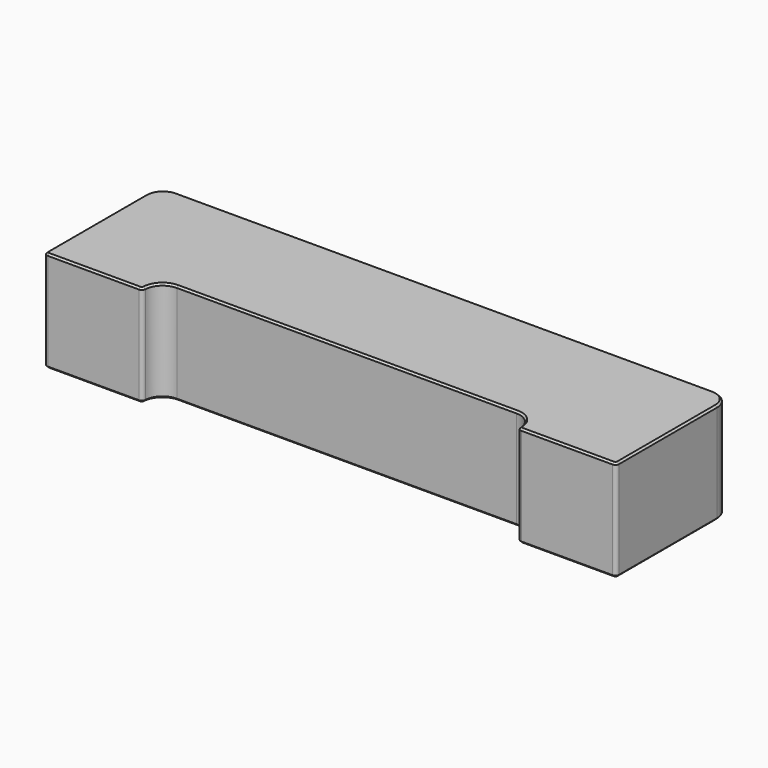
from build123d import *

# Parameters (mm, degrees)
F1_DEPTH = 11.3
F2_R     = 0.4
F3_SIZE  = 0.2


with BuildPart() as f1:
    # F0 (on Top) → F1 (new body)
    with BuildSketch(Plane.XY):
        with BuildLine():
            Line((-32, 6.05), (-32, -8.05))
            Line((-32, -8.05), (-21, -8.05))
            Line((-21, -8.05), (-21, -7.75))
            ThreePointArc((-21, -7.75), (-20.414214, -6.335786), (-19, -5.75))
            Line((-19, -5.75), (19, -5.75))
            ThreePointArc((19, -5.75), (20.414214, -6.335786), (21, -7.75))
            Line((21, -7.75), (21, -8.05))
            Line((21, -8.05), (32, -8.05))
            Line((32, -8.05), (32, 6.05))
            ThreePointArc((32, 6.05), (31.414214, 7.464214), (30, 8.05))
            Line((30, 8.05), (-30, 8.05))
            ThreePointArc((-30, 8.05), (-31.414214, 7.464214), (-32, 6.05))
        make_face()
    extrude(amount=F1_DEPTH)

    # F2
    f2_edges = [f1.edges().sort_by_distance(p)[0] for p in [
        (-32, -8.05, 5.65),
        (-21, -8.05, 5.65),
        (21, -8.05, 5.65),
        (32, -8.05, 5.65),
    ]]
    fillet(f2_edges, radius=F2_R)

    # F3
    f3_edges = [f1.edges().sort_by_distance(p)[0] for p in [
        (-32, -0.8, 0),
        (-31.882843, -7.932843, 0),
        (-31.414214, 7.464214, 0),
        (-26.498958, -8.05, 0),
        (0, 8.05, 0),
        (-21.121028, -7.938675, 0),
        (31.414214, 7.464214, 0),
        (-20.384437, -6.306624, 0),
        (32, -0.8, 0),
        (0, -5.75, 0),
        (31.882843, -7.932843, 0),
        (20.384437, -6.306624, 0),
        (26.498958, -8.05, 0),
        (21.121028, -7.938675, 0),
        (-32, -0.8, 11.3),
        (-31.882843, -7.932843, 11.3),
        (-31.414214, 7.464214, 11.3),
        (-26.498958, -8.05, 11.3),
        (0, 8.05, 11.3),
        (-21.121028, -7.938675, 11.3),
        (31.414214, 7.464214, 11.3),
        (-20.384437, -6.306624, 11.3),
        (32, -0.8, 11.3),
        (0, -5.75, 11.3),
        (31.882843, -7.932843, 11.3),
        (20.384437, -6.306624, 11.3),
        (26.498958, -8.05, 11.3),
        (21.121028, -7.938675, 11.3),
    ]]
    chamfer(f3_edges, length=F3_SIZE)


solid = f1.part
